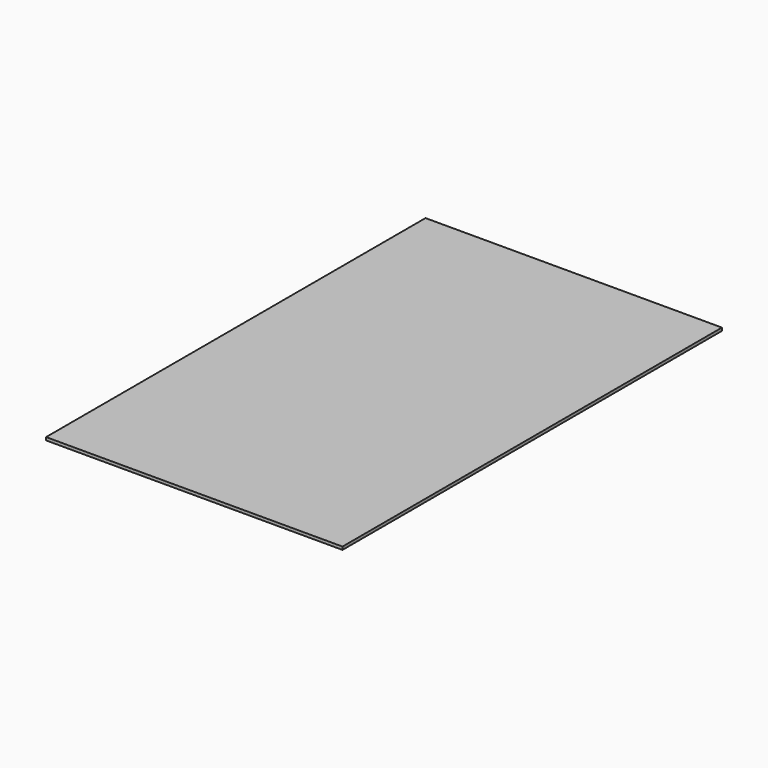
from build123d import *

# Parameters (mm, degrees)
F0_W     = 1000
F0_H     = 1600
F1_DEPTH = 10
F2_SCALE = 0.07


with BuildPart() as f1:
    # F0 (on Top) → F1 (new body)
    with BuildSketch(Plane.XY):
        with Locations((500, 800)):
            Rectangle(F0_W, F0_H)
    extrude(amount=-F1_DEPTH)


with BuildPart() as f1_1:
    # F2: moved
    add(f1.part.scale(F2_SCALE))


solid = f1_1.part
